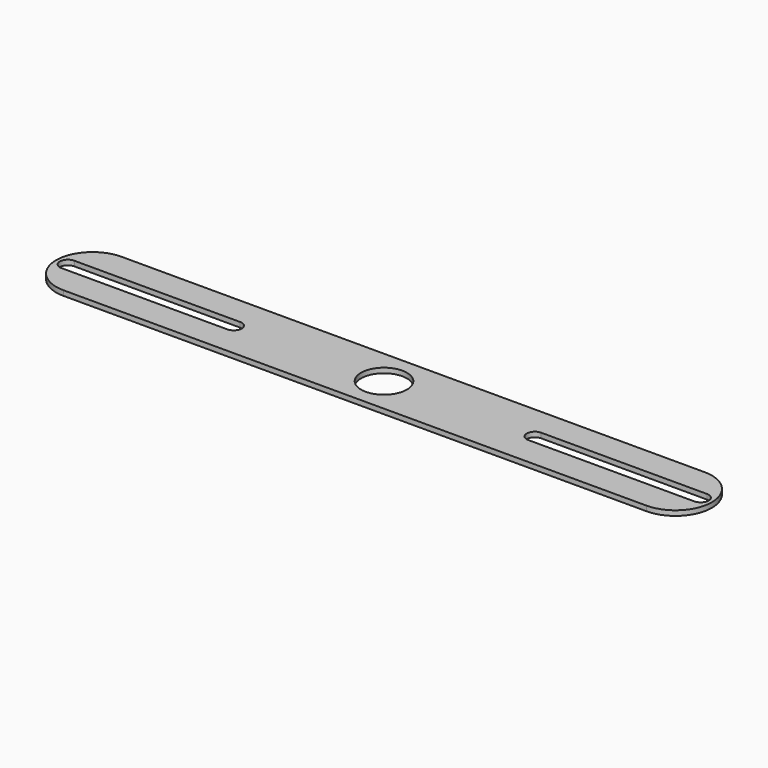
from build123d import *

# Parameters (mm, degrees)
F0_R     = 14.0335
F1_DEPTH = 3.048


with BuildPart() as f1:
    # F0 (on Top) → F1 (new body)
    with BuildSketch(Plane.XY):
        with BuildLine():
            Line((-178.59375, -22.225), (178.59375, -22.225))
            ThreePointArc((178.59375, -22.225), (200.81875, 0), (178.59375, 22.225))
            Line((178.59375, 22.225), (-178.59375, 22.225))
            ThreePointArc((-178.59375, 22.225), (-200.81875, 0), (-178.59375, -22.225))
        make_face()
        with BuildLine():
            ThreePointArc((-193.675, -4.9022), (-198.5772, 0), (-193.675, 4.9022))
            Line((-193.675, 4.9022), (-92.075, 4.9022))
            ThreePointArc((-92.075, 4.9022), (-87.1728, 0), (-92.075, -4.9022))
            Line((-92.075, -4.9022), (-193.675, -4.9022))
        make_face(mode=Mode.SUBTRACT)
        Circle(F0_R, mode=Mode.SUBTRACT)
        with BuildLine():
            ThreePointArc((92.075, -4.502106), (87.1728, 0.400094), (92.075, 5.302294))
            Line((92.075, 5.302294), (193.675, 5.302294))
            ThreePointArc((193.675, 5.302294), (198.5772, 0.400094), (193.675, -4.502106))
            Line((193.675, -4.502106), (92.075, -4.502106))
        make_face(mode=Mode.SUBTRACT)
    extrude(amount=F1_DEPTH)


solid = f1.part
